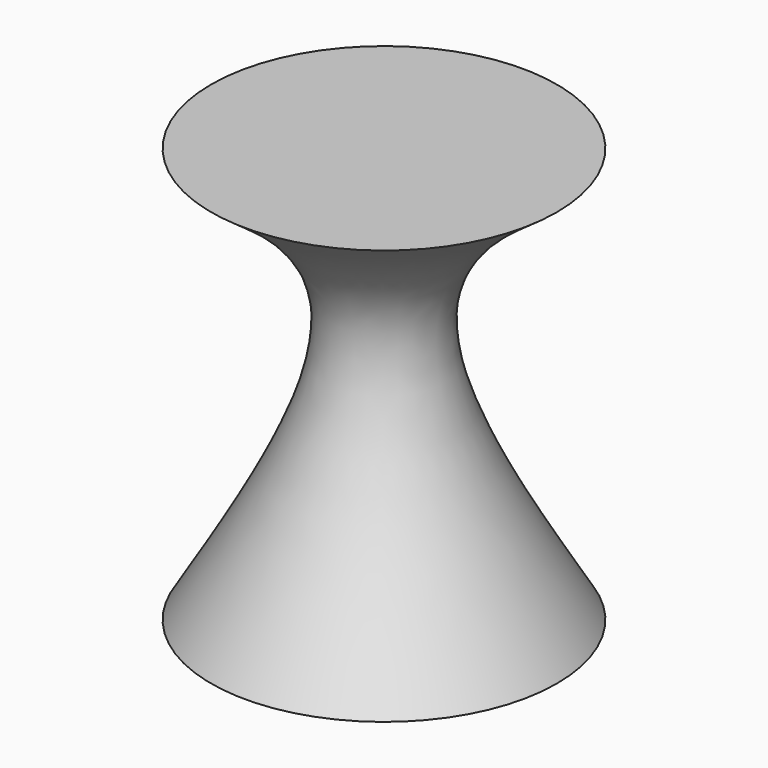
from build123d import *

# Parameters (mm, degrees)
F0_R     = 25.4
F1_DEPTH = 60.96


with BuildPart() as f1:
    # F0 (on Top) → F1 (new body)
    with BuildSketch(Plane.XY):
        Circle(F0_R)
    extrude(amount=F1_DEPTH)

    # F2 (on Front) → F3 (revolve, cut)
    with BuildSketch(Plane.XZ):
        with BuildLine():
            add(Edge.make_bspline(
                [(-25.4, 60.96), (-17.6832236638, 55.46872433), (0.3022215159, 42.670240452), (-16.0587903951, 15.5080625893), (-25.4, 0)],
                knots=[0, 0, 0, 0, 0.4290567322, 1, 1, 1, 1], degree=3))
            Line((-25.4, 60.96), (-25.4, 0))
        make_face()
    revolve(axis=Axis((0, 0, 30.7848054908), (0, 0, -1)), mode=Mode.SUBTRACT)


solid = f1.part
